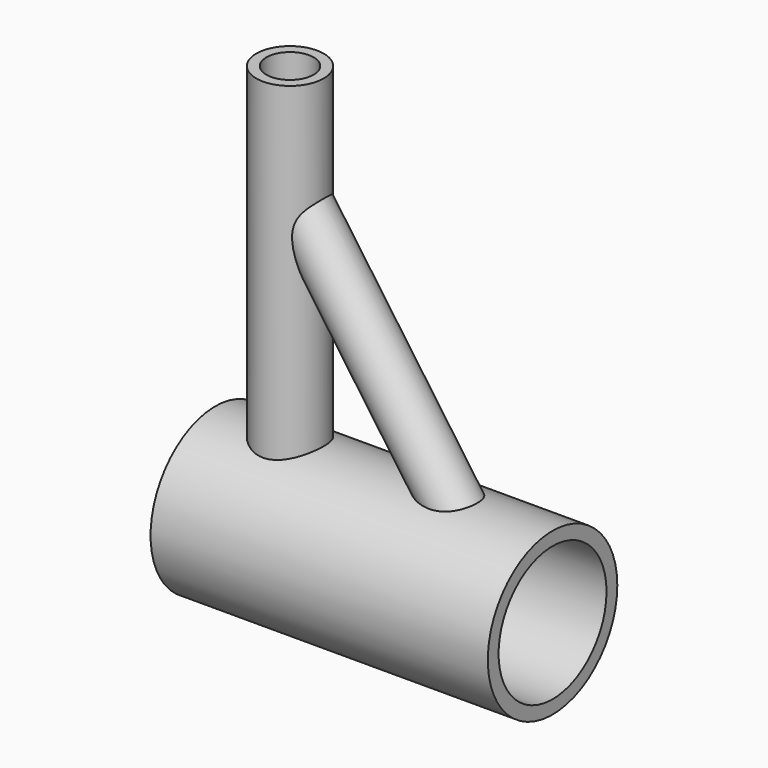
from build123d import *

# Parameters (mm, degrees)
F0_R      = 30.48
F0_R_2    = 25.4
F1_DEPTH  = 63.5
F2_R      = 12.7
F2_R_2    = 8.89
F3_DEPTH  = 152.4
F4_DEPTH  = 127
F7_R      = 9.525
F7_R_2    = 6.985
F8_DEPTH  = 114.3
F9_DEPTH  = 63.5
F10_DEPTH = 152.4


with BuildPart() as f1:
    # F0 (on Right) → F1 (new body, symmetric)
    with BuildSketch(Plane.YZ):
        Circle(F0_R)
        Circle(F0_R_2, mode=Mode.SUBTRACT)
    extrude(amount=F1_DEPTH, both=True)

    # F2 (on Top) → F3 (join)
    with BuildSketch(Plane.XY):
        with Locations((-35.376701504, 0)):
            Circle(F2_R)
        with Locations((-35.376701504, 0)):
            Circle(F2_R_2, mode=Mode.SUBTRACT)
    extrude(amount=F3_DEPTH)

    # F2 (on Top) → F4 (cut)
    with BuildSketch(Plane.XY):
        with Locations((-35.376701504, 0)):
            Circle(F2_R_2)
    extrude(amount=F4_DEPTH, mode=Mode.SUBTRACT)

    # F7 (on face) → F8 (join)
    with BuildSketch(Plane(origin=(1.4659811872, 0, -2.0798127231), x_dir=(0.8173605528, 0, 0.576126485), z_dir=(-0.576126485, 0, 0.8173605528))):
        with Locations((36.7964394391, 0)):
            Circle(F7_R)
        with Locations((36.7964394391, 0)):
            Circle(F7_R_2, mode=Mode.SUBTRACT)
    extrude(amount=F8_DEPTH)

    # F0 (on Right) → F9 (cut, symmetric)
    with BuildSketch(Plane.YZ):
        Circle(F0_R_2)
    extrude(amount=F9_DEPTH, both=True, mode=Mode.SUBTRACT)

    # F2 (on Top) → F10 (cut)
    with BuildSketch(Plane.XY):
        with Locations((-35.376701504, 0)):
            Circle(F2_R_2)
    extrude(amount=F10_DEPTH, mode=Mode.SUBTRACT)


solid = f1.part
